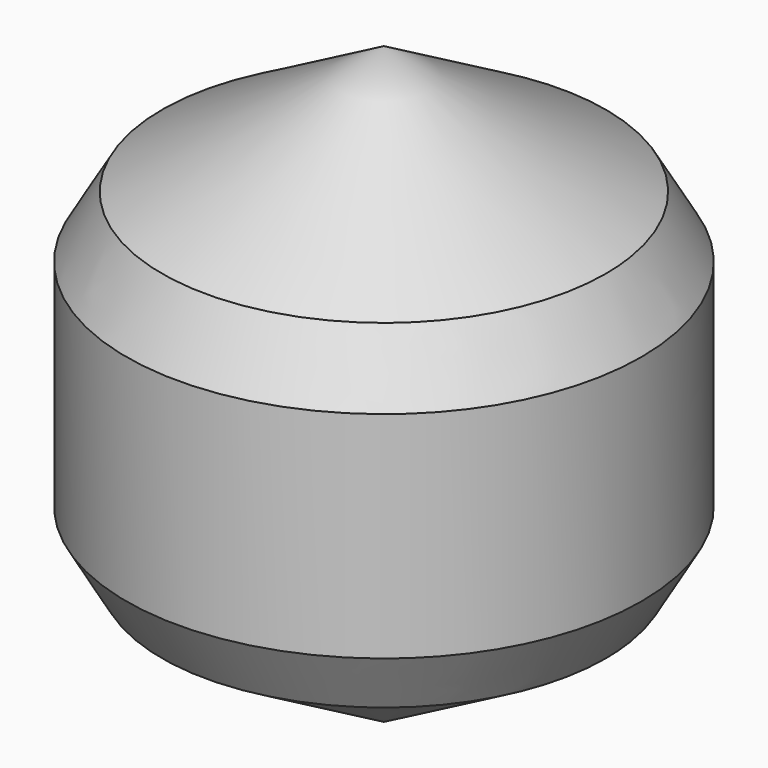
from build123d import *

# Parameters (mm, degrees)
F2_SIZE = 7.62


with BuildPart() as f1:
    # F0 (on Front) → F1 (revolve)
    with BuildSketch(Plane.XZ):
        Polygon((47.689527, 27.533561), (0, 55.067122), (0, -55.067122), (47.689527, -27.533561), align=None)
    revolve(axis=Axis((0, 0, 0), (0, 0, -1)))

    # F2
    f2_edges = [f1.edges().sort_by_distance(p)[0] for p in [
        (-47.689527, 0, 27.533561),
        (-47.689527, 0, -27.533561),
    ]]
    chamfer(f2_edges, length=F2_SIZE)


solid = f1.part
